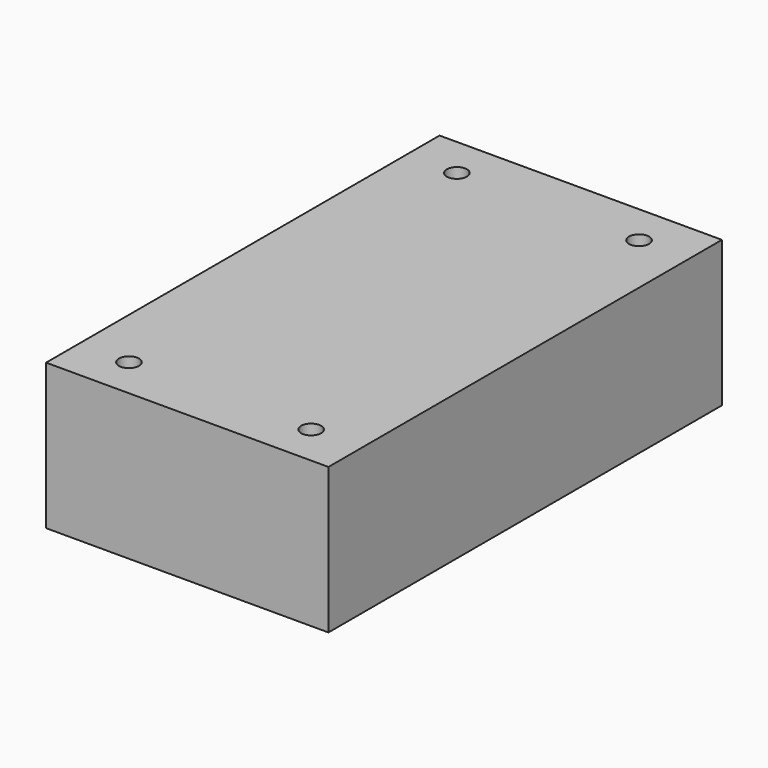
from build123d import *

# Parameters (mm, degrees)
CYLINDER005_R     = 2.2
CYLINDER005_DEPTH = 32
ARRAY004_X_COUNT  = 2
ARRAY004_X_PITCH  = 40
ARRAY004_Y_COUNT  = 2
ARRAY004_Y_PITCH  = 90
BOX005_W          = 62
BOX005_H          = 108
BOX005_DEPTH      = 32


with BuildPart() as psu_mockup_hole_array:
    # Cylinder005 → Cylinder005 (new body)
    with BuildSketch(Plane.XY):
        Circle(CYLINDER005_R)
    extrude(amount=CYLINDER005_DEPTH)

    # Array004 X: psu mockup hole array ×2


with BuildPart() as psu_mockup_hole_array_1:
    add(psu_mockup_hole_array.part)
    with Locations(*[(i * ARRAY004_X_PITCH, 0, 0) for i in range(1, ARRAY004_X_COUNT)]):
        add(psu_mockup_hole_array.part)

    # Array004 Y: psu mockup hole array ×2


with BuildPart() as psu_mockup_hole_array_2:
    add(psu_mockup_hole_array_1.part)
    with Locations(*[(0, i * ARRAY004_Y_PITCH, 0) for i in range(1, ARRAY004_Y_COUNT)]):
        add(psu_mockup_hole_array_1.part)


with BuildPart() as psu_mockup_hole_array_3:
    # Array004 placement: moved
    add(psu_mockup_hole_array_2.part.moved(Location((11, 9, 0))))


with BuildPart() as psu_mockup_with_holes:
    # Box005 → Box005 (new body)
    with BuildSketch(Plane.XY):
        with Locations((31, 54)):
            Rectangle(BOX005_W, BOX005_H)
    extrude(amount=BOX005_DEPTH)

    # Cut003: cut psu mockup hole array
    add(psu_mockup_hole_array_3.part, mode=Mode.SUBTRACT)


with BuildPart() as psu_mockup_with_holes_1:
    # Cut003 placement: moved
    add(psu_mockup_with_holes.part.moved(Location((-31, 40, 10))))


solid = psu_mockup_with_holes_1.part
